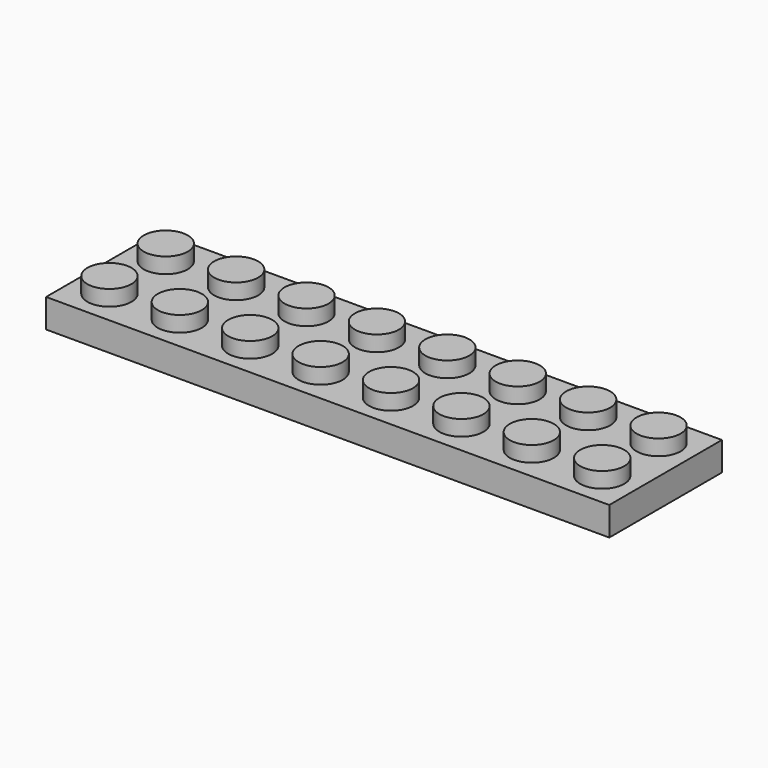
from build123d import *

# Parameters (mm, degrees)
F0_W     = 62.992
F0_H     = 15.748
F1_DEPTH = 3.20802
F2_R     = 2.4638
F3_DEPTH = 4.953
F4_T     = -1.5748
F5_R     = 3.2766
F5_R_2   = 2.4638
F6_DEPTH = 1.63322


with BuildPart() as f1:
    # F0 (on Top) → F1 (new body)
    with BuildSketch(Plane.XY):
        Rectangle(F0_W, F0_H)
    extrude(amount=F1_DEPTH)

    # F2 (on Top) → F3 (join)
    with BuildSketch(Plane.XY):
        with Locations((27.559, 3.937)):
            Circle(F2_R)
        with Locations((11.811, 3.937)):
            Circle(F2_R)
        with Locations((19.685, 3.937)):
            Circle(F2_R)
        with Locations((3.937, 3.937)):
            Circle(F2_R)
        with Locations((-3.937, 3.937)):
            Circle(F2_R)
        with Locations((-11.811, 3.937)):
            Circle(F2_R)
        with Locations((-19.685, 3.937)):
            Circle(F2_R)
        with Locations((-27.559, 3.937)):
            Circle(F2_R)
        with Locations((-27.559, -3.937)):
            Circle(F2_R)
        with Locations((-19.685, -3.937)):
            Circle(F2_R)
        with Locations((-11.811, -3.937)):
            Circle(F2_R)
        with Locations((-3.937, -3.937)):
            Circle(F2_R)
        with Locations((3.937, -3.937)):
            Circle(F2_R)
        with Locations((11.811, -3.937)):
            Circle(F2_R)
        with Locations((19.685, -3.937)):
            Circle(F2_R)
        with Locations((27.559, -3.937)):
            Circle(F2_R)
    extrude(amount=F3_DEPTH)

    # F4
    f4_openings = [f1.faces().sort_by_distance(p)[0] for p in [
        (0, 0, 0),
    ]]
    offset(amount=F4_T, openings=f4_openings, kind=Kind.INTERSECTION)

    # F5 (on face) → F6 (join)
    with BuildSketch(Plane(origin=(0, 0, 1.63322), x_dir=(1, 0, 0), z_dir=(0, 0, -1))):
        with Locations((-23.622, 0)):
            Circle(F5_R)
        with Locations((-23.622, 0)):
            Circle(F5_R_2, mode=Mode.SUBTRACT)
        with BuildLine():
            Line((-13.2842, 0), (-12.573, 0))
            ThreePointArc((-12.573, 0), (-15.748, 3.175), (-18.923, 0))
            Line((-18.923, 0), (-18.2118, 0))
            ThreePointArc((-18.2118, 0), (-15.748, 2.4638), (-13.2842, 0))
        make_face()
        with BuildLine():
            ThreePointArc((-18.923, 0), (-15.748, -3.175), (-12.573, 0))
            Line((-12.573, 0), (-13.2842, 0))
            ThreePointArc((-13.2842, 0), (-15.748, -2.4638), (-18.2118, 0))
            Line((-18.2118, 0), (-18.923, 0))
        make_face()
        with BuildLine():
            ThreePointArc((-11.049, 0), (-7.874, -3.175), (-4.699, 0))
            Line((-4.699, 0), (-5.4102, 0))
            ThreePointArc((-5.4102, 0), (-7.874, -2.4638), (-10.3378, 0))
            Line((-10.3378, 0), (-11.049, 0))
        make_face()
        with BuildLine():
            Line((-5.4102, 0), (-4.699, 0))
            ThreePointArc((-4.699, 0), (-7.874, 3.175), (-11.049, 0))
            Line((-11.049, 0), (-10.3378, 0))
            ThreePointArc((-10.3378, 0), (-7.874, 2.4638), (-5.4102, 0))
        make_face()
        with BuildLine():
            ThreePointArc((-2.4638, 0), (0, 2.4638), (2.4638, 0))
            Line((2.4638, 0), (3.175, 0))
            ThreePointArc((3.175, 0), (0, 3.175), (-3.175, 0))
            Line((-3.175, 0), (-2.4638, 0))
        make_face()
        with BuildLine():
            Line((3.175, 0), (2.4638, 0))
            ThreePointArc((2.4638, 0), (0, -2.4638), (-2.4638, 0))
            Line((-2.4638, 0), (-3.175, 0))
            ThreePointArc((-3.175, 0), (0, -3.175), (3.175, 0))
        make_face()
        with BuildLine():
            Line((5.4102, 0), (4.699, 0))
            ThreePointArc((4.699, 0), (7.874, -3.175), (11.049, 0))
            Line((11.049, 0), (10.3378, 0))
            ThreePointArc((10.3378, 0), (7.874, -2.4638), (5.4102, 0))
        make_face()
        with BuildLine():
            ThreePointArc((11.049, 0), (7.874, 3.175), (4.699, 0))
            Line((4.699, 0), (5.4102, 0))
            ThreePointArc((5.4102, 0), (7.874, 2.4638), (10.3378, 0))
            Line((10.3378, 0), (11.049, 0))
        make_face()
        with BuildLine():
            ThreePointArc((18.923, 0), (15.748, 3.175), (12.573, 0))
            Line((12.573, 0), (13.2842, 0))
            ThreePointArc((13.2842, 0), (15.748, 2.4638), (18.2118, 0))
            Line((18.2118, 0), (18.923, 0))
        make_face()
        with BuildLine():
            Line((13.2842, 0), (12.573, 0))
            ThreePointArc((12.573, 0), (15.748, -3.175), (18.923, 0))
            Line((18.923, 0), (18.2118, 0))
            ThreePointArc((18.2118, 0), (15.748, -2.4638), (13.2842, 0))
        make_face()
        with BuildLine():
            ThreePointArc((26.797, 0), (23.622, 3.175), (20.447, 0))
            ThreePointArc((20.447, 0), (23.622, -3.175), (26.797, 0))
        make_face()
        with BuildLine():
            ThreePointArc((26.0858, 0), (23.622, -2.4638), (21.1582, 0))
            ThreePointArc((21.1582, 0), (23.622, 2.4638), (26.0858, 0))
        make_face(mode=Mode.SUBTRACT)
    extrude(amount=F6_DEPTH)


solid = f1.part
